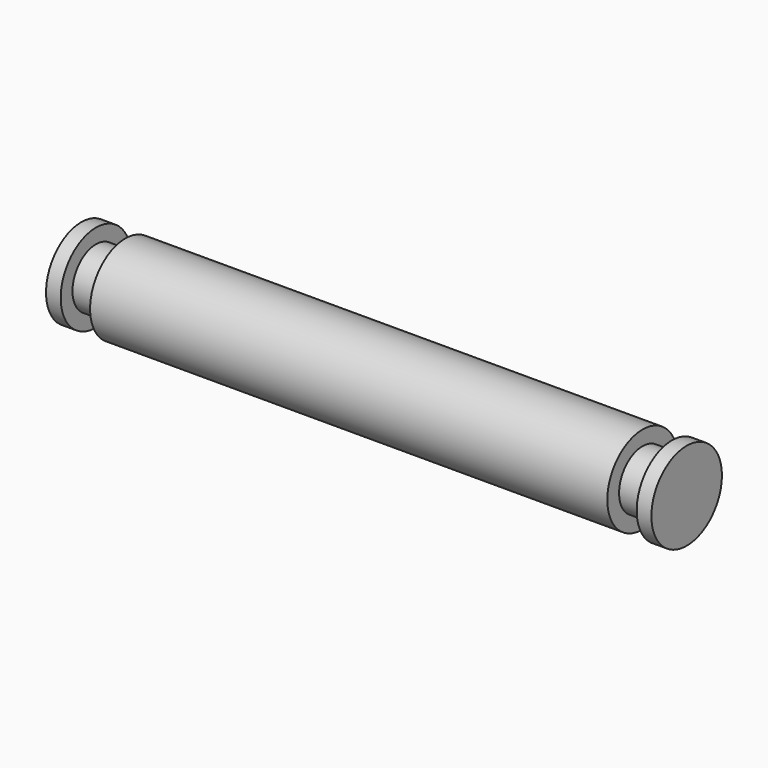
from build123d import *

# Parameters (mm, degrees)
SKETCH_R     = 3
PAD_DEPTH    = 35.2
SKETCH001_R  = 2
PAD001_DEPTH = 2
SKETCH002_R  = 3
PAD002_DEPTH = 1
SKETCH003_R  = 2
PAD003_DEPTH = 2
SKETCH004_R  = 3
PAD004_DEPTH = 1


with BuildPart() as part:
    # Sketch → Pad (new body)
    with BuildSketch(Plane.YZ):
        Circle(SKETCH_R)
    extrude(amount=PAD_DEPTH)

    # Sketch001 (on Face3 of Pad) → Pad001 (join)
    with BuildSketch(Plane.YZ.offset(35.2)):
        Circle(SKETCH001_R)
    extrude(amount=PAD001_DEPTH)

    # Sketch002 (on Face5 of Pad001) → Pad002 (join)
    with BuildSketch(Plane.YZ.offset(37.2)):
        Circle(SKETCH002_R)
    extrude(amount=PAD002_DEPTH)

    # Sketch003 (on Face7 of Pad002) → Pad003 (join)
    with BuildSketch(Plane(origin=(0, 0, 0), x_dir=(0, 1, 0), z_dir=(-1, 0, 0))):
        Circle(SKETCH003_R)
    extrude(amount=PAD003_DEPTH)

    # Sketch004 (on Face9 of Pad003) → Pad004 (join)
    with BuildSketch(Plane(origin=(-2, 0, 0), x_dir=(0, 1, 0), z_dir=(-1, 0, 0))):
        Circle(SKETCH004_R)
    extrude(amount=PAD004_DEPTH)


solid = part.part
